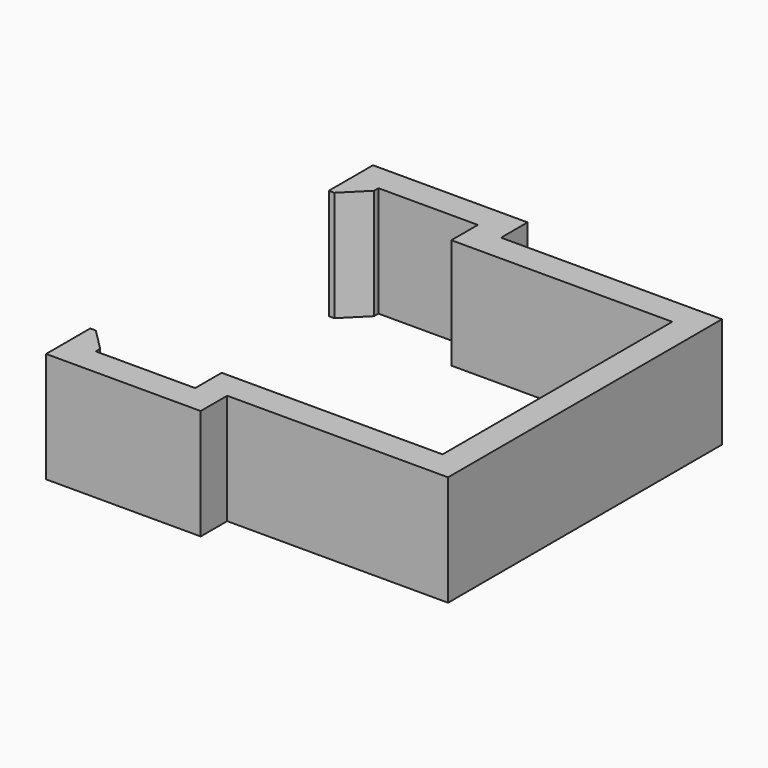
from build123d import *

# Parameters (mm, degrees)
F1_DEPTH = 10
F2_SIZE  = 2


with BuildPart() as f1:
    # F0 (on Top) → F1 (new body)
    with BuildSketch(Plane.XY):
        Polygon((-10, 13), (10, 13), (10, -13), (-10, -13), (-10, -16), (-19, -16), (-19, -13.5), (-21.5, -13.5), (-21.5, -18.5), (-19, -18.5), (-7.5, -18.5), (-7.5, -15.5), (12.5, -15.5), (12.5, 15.5), (-7.5, 15.5), (-7.5, 18.5), (-19, 18.5), (-21.5, 18.5), (-21.5, 13.5), (-19, 13.5), (-19, 16), (-10, 16), align=None)
    extrude(amount=F1_DEPTH)

    # F2
    f2_edges = [f1.edges().sort_by_distance(p)[0] for p in [
        (-19, 13.5, 5),
        (-19, -13.5, 5),
    ]]
    chamfer(f2_edges, length=F2_SIZE)


solid = f1.part
